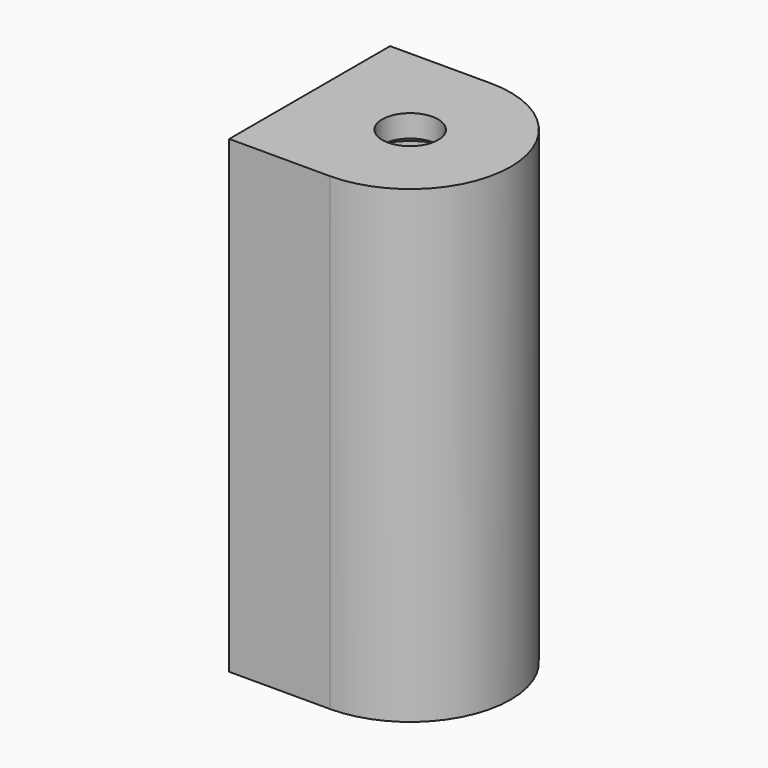
from build123d import *

# Parameters (mm, degrees)
F1_DEPTH = 40
F3_D     = 10
F3_DEPTH = 38.5
F3_TIP   = 3.0043030951
F4_DEPTH = 2


with BuildPart() as f1:
    # F0 (on Top) → F1 (new body)
    with BuildSketch(Plane.XY):
        with BuildLine():
            ThreePointArc((0, -5), (-5, 0), (0, 5))
            Line((0, 5), (0, 9))
            ThreePointArc((0, 9), (-6.3639610307, 6.3639610307), (-9, 0))
            ThreePointArc((-9, 0), (-6.3639610307, -6.3639610307), (0, -9))
            Line((0, -9), (0, -5))
        make_face()
        with BuildLine():
            ThreePointArc((-9, 0), (-6.3639610307, 6.3639610307), (0, 9))
            Line((0, 9), (-9, 9))
            Line((-9, 9), (-9, 0))
        make_face()
        with BuildLine():
            Line((-9, -9), (0, -9))
            ThreePointArc((0, -9), (-6.3639610307, -6.3639610307), (-9, 0))
            Line((-9, 0), (-9, -9))
        make_face()
        with BuildLine():
            ThreePointArc((0, 5), (3.5355339059, 3.5355339059), (5, 0))
            ThreePointArc((5, 0), (3.5355339059, -3.5355339059), (0, -5))
            Line((0, -5), (0, -9))
            ThreePointArc((0, -9), (6.3639610307, -6.3639610307), (9, 0))
            ThreePointArc((9, 0), (6.3639610307, 6.3639610307), (0, 9))
            Line((0, 9), (0, 5))
        make_face()
        with BuildLine():
            Line((0, -5), (0, 5))
            ThreePointArc((0, 5), (-5, 0), (0, -5))
        make_face()
        with BuildLine():
            ThreePointArc((0, -5), (3.5355339059, -3.5355339059), (5, 0))
            ThreePointArc((5, 0), (3.5355339059, 3.5355339059), (0, 5))
            Line((0, 5), (0, -5))
        make_face()
    extrude(amount=F1_DEPTH)

    # F3
    with Locations(Plane(origin=(0, 0, 0), x_dir=(1, 0, 0), z_dir=(0, 0, -1))):
        with Locations((0, 0)):
            Hole(F3_D / 2, depth=F3_DEPTH)
            with Locations((0, 0, -(F3_DEPTH + F3_TIP / 2))):  # 118° drill point
                Cone(0, F3_D / 2, F3_TIP, mode=Mode.SUBTRACT)

    # F4 (add): a face of the model
    f4_faces = [f1.faces().sort_by_distance(p)[0] for p in [
        (-4.5, 8.7454415588, 40),
    ]]
    extrude(f4_faces, amount=F4_DEPTH)


solid = f1.part
